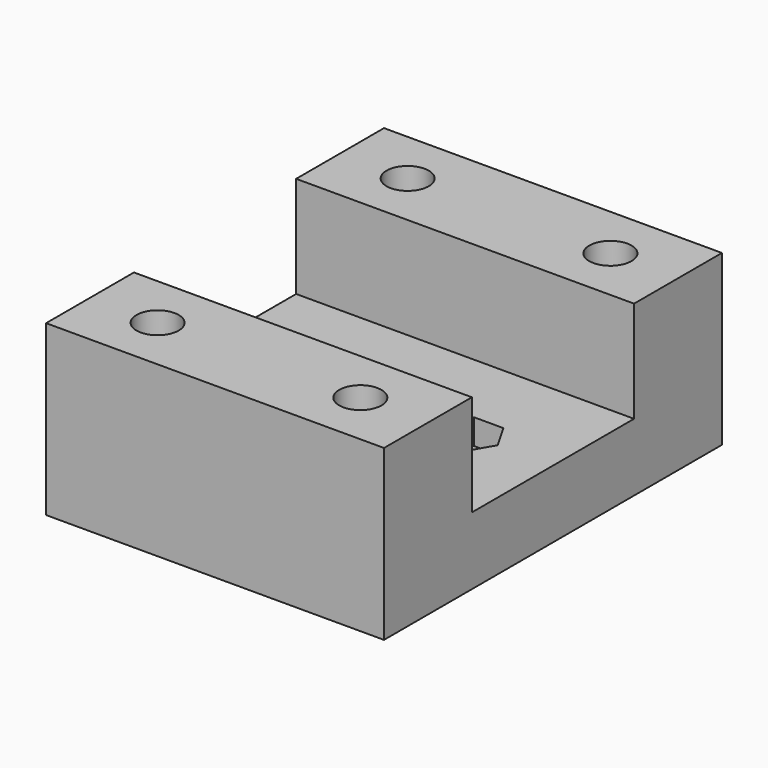
from build123d import *

# Parameters (mm, degrees)
F0_W           = 40
F0_H           = 24
F1_DEPTH       = 8
F0_H_2         = 13
F2_DEPTH       = 20
F3_D           = 5
F5_DEPTH       = 5
F7_D           = 3
F7_CBORE_D     = 6
F7_CBORE_DEPTH = 1
F8_R           = 1.5
F9_DEPTH       = 3


with BuildPart() as f1:
    # F0 (on Top) → F1 (new body)
    with BuildSketch(Plane.XY):
        with Locations((-20, 25)):
            Rectangle(F0_W, F0_H)
    extrude(amount=F1_DEPTH)

    # F0 (on Top) → F2 (join)
    with BuildSketch(Plane.XY):
        with Locations((-20, 43.5)):
            Rectangle(F0_W, F0_H_2)
        with Locations((-20, 6.5)):
            Rectangle(F0_W, F0_H_2)
    extrude(amount=F2_DEPTH)

    # F3 (through all)
    with Locations(Plane(origin=(0, 0, 0), x_dir=(1, 0, 0), z_dir=(0, 0, -1))):
        with Locations((-8, -43.5), (-32, -43.5), (-32, -6.5), (-8, -6.5)):
            Hole(F3_D / 2)

    # F4 (on face) → F5 (cut)
    with BuildSketch(Plane.XY):
        Polygon((-29.6905989232, 10.5), (-34.3094010768, 10.5), (-36.6188021535, 6.5), (-34.3094010768, 2.5), (-29.6905989232, 2.5), (-27.3811978465, 6.5), align=None)
        Polygon((-5.6905989232, 10.5), (-10.3094010768, 10.5), (-12.6188021535, 6.5), (-10.3094010768, 2.5), (-5.6905989232, 2.5), (-3.3811978465, 6.5), align=None)
        Polygon((-5.6905989232, 47.5), (-10.3094010768, 47.5), (-12.6188021535, 43.5), (-10.3094010768, 39.5), (-5.6905989232, 39.5), (-3.3811978465, 43.5), align=None)
        Polygon((-29.6905989232, 47.5), (-34.3094010768, 47.5), (-36.6188021535, 43.5), (-34.3094010768, 39.5), (-29.6905989232, 39.5), (-27.3811978465, 43.5), align=None)
    extrude(amount=F5_DEPTH, mode=Mode.SUBTRACT)

    # F7 (through all)
    with Locations(Plane(origin=(0, 0, 0), x_dir=(1, 0, 0), z_dir=(0, 0, -1))):
        with Locations((-30, -25), (-10, -25)):
            CounterBoreHole(F7_D / 2, F7_CBORE_D / 2, F7_CBORE_DEPTH)

    # F8 (on face) → F9 (cut)
    with BuildSketch(Plane.XY.offset(8)):
        Polygon((-8.2679491924, 28), (-11.7320508076, 28), (-13.4641016151, 25), (-11.7320508076, 22), (-8.2679491924, 22), (-6.5358983849, 25), align=None)
        with Locations((-10, 25)):
            Circle(F8_R, mode=Mode.SUBTRACT)
        Polygon((-28.2679491924, 28), (-31.7320508076, 28), (-33.4641016151, 25), (-31.7320508076, 22), (-28.2679491924, 22), (-26.5358983849, 25), align=None)
        with Locations((-30, 25)):
            Circle(F8_R, mode=Mode.SUBTRACT)
    extrude(amount=-F9_DEPTH, mode=Mode.SUBTRACT)


solid = f1.part
